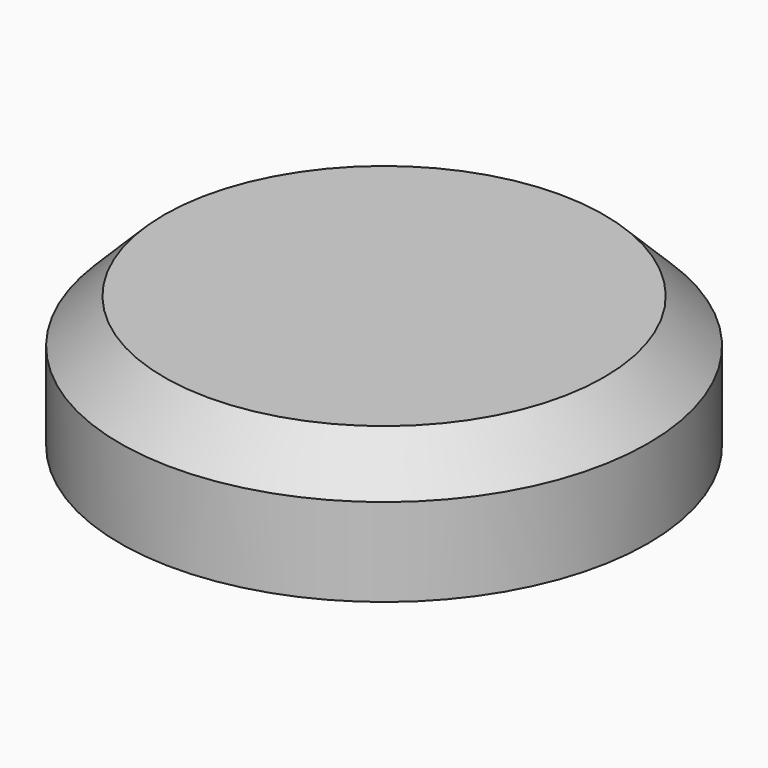
from build123d import *

# Parameters (mm, degrees)
F0_R     = 38.1
F1_DEPTH = 19.05
F2_SIZE  = 6.35
F3_R     = 25.4
F4_DEPTH = 12.7
F5_SIZE  = 6.35


with BuildPart() as f1:
    # F0 (on Top) → F1 (new body)
    with BuildSketch(Plane.XY):
        Circle(F0_R)
    extrude(amount=F1_DEPTH)

    # F2
    f2_edges = [f1.edges().sort_by_distance(p)[0] for p in [
        (-38.1, 0, 19.05),
    ]]
    chamfer(f2_edges, length=F2_SIZE)

    # F3 (on face) → F4 (cut)
    with BuildSketch(Plane(origin=(0, 0, 0), x_dir=(1, 0, 0), z_dir=(0, 0, -1))):
        Circle(F3_R)
    extrude(amount=-F4_DEPTH, mode=Mode.SUBTRACT)

    # F5
    f5_edges = [f1.edges().sort_by_distance(p)[0] for p in [
        (-25.4, 0, 12.7),
    ]]
    chamfer(f5_edges, length=F5_SIZE)


solid = f1.part
